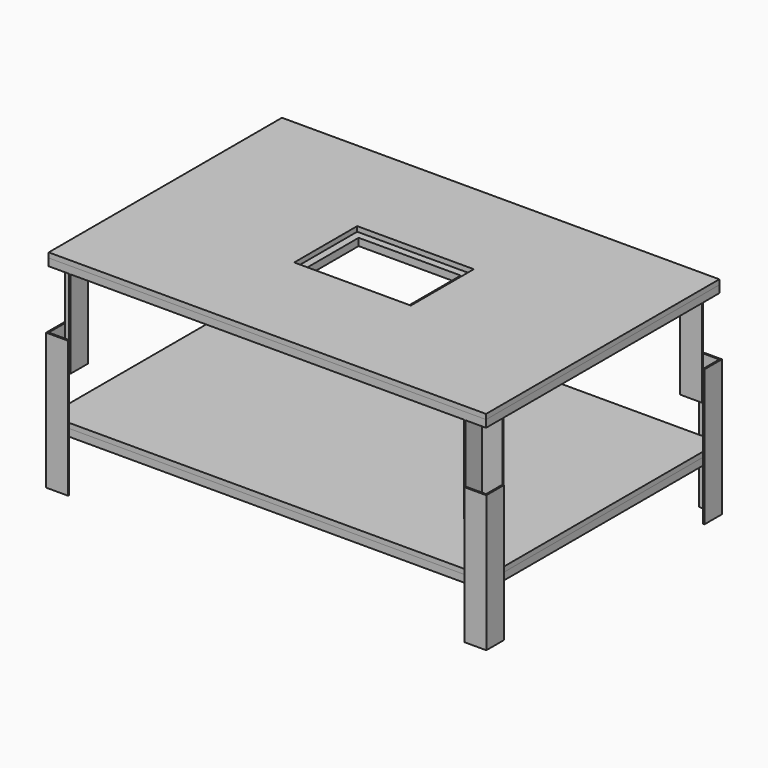
from build123d import *

# Parameters (mm, degrees)
F0_W      = 1500
F0_H      = 1000
F1_DEPTH  = 17
F2_W      = 1500
F2_H      = 1000
F2_W_2    = 350
F2_H_2    = 50
F3_DEPTH  = 25
F2_W_3    = 450
F2_H_3    = 25
F4_DEPTH  = 50
F5_W      = 400
F5_H      = 270
F6_DEPTH  = 17
F8_DEPTH  = 300
F11_DEPTH = 468
F13_W     = 1500
F13_H     = 1000
F14_DEPTH = 17
F15_W     = 1500
F15_H     = 1000
F15_W_2   = 1450
F15_H_2   = 950
F16_DEPTH = 25


with BuildPart() as f1:
    # F0 (on Top) → F1 (new body)
    with BuildSketch(Plane.XY):
        Rectangle(F0_W, F0_H)
    extrude(amount=F1_DEPTH)

    # F5 (on face) → F6 (cut, through all)
    with BuildSketch(Plane.XY.offset(17)):
        Rectangle(F5_W, F5_H)
    extrude(amount=-F6_DEPTH, mode=Mode.SUBTRACT)


with BuildPart() as f3:
    # F2 (on face) → F3 (new body)
    with BuildSketch(Plane(origin=(0, 0, 0), x_dir=(1, 0, 0), z_dir=(0, 0, -1))):
        Rectangle(F2_W, F2_H)
        Polygon((225, 425), (675, 425), (675, 160), (675, 135), (675, -135), (675, -160), (675, -425), (225, -425), (175, -425), (-175, -425), (-225, -425), (-675, -425), (-675, -160), (-675, -135), (-675, 135), (-675, 160), (-675, 425), (-225, 425), (-175, 425), (175, 425), align=None, mode=Mode.SUBTRACT)
        Polygon((-175, 160), (-175, 425), (-225, 425), (-225, 160), (-225, 135), (-225, -135), (-225, -160), (-225, -425), (-175, -425), (-175, -160), (-175, -110), (-175, 110), align=None)
        Polygon((225, 160), (225, 425), (175, 425), (175, 160), (175, 110), (175, -110), (175, -160), (175, -425), (225, -425), (225, -160), (225, -135), (225, 135), align=None)
        with Locations((0, 135)):
            Rectangle(F2_W_2, F2_H_2)
        with Locations((0, -135)):
            Rectangle(F2_W_2, F2_H_2)
    extrude(amount=F3_DEPTH)


with BuildPart() as f4:
    # F2 (on face) → F4 (new body)
    with BuildSketch(Plane(origin=(0, 0, 0), x_dir=(1, 0, 0), z_dir=(0, 0, -1))):
        with Locations((-450, 147.5)):
            Rectangle(F2_W_3, F2_H_3)
    extrude(amount=F4_DEPTH)


with BuildPart() as f4b:
    # F2 (on face) → F4, piece 2 (new body)
    with BuildSketch(Plane(origin=(0, 0, 0), x_dir=(1, 0, 0), z_dir=(0, 0, -1))):
        with Locations((-450, -147.5)):
            Rectangle(F2_W_3, F2_H_3)
    extrude(amount=F4_DEPTH)


with BuildPart() as f4c:
    # F2 (on face) → F4, piece 3 (new body)
    with BuildSketch(Plane(origin=(0, 0, 0), x_dir=(1, 0, 0), z_dir=(0, 0, -1))):
        with Locations((450, 147.5)):
            Rectangle(F2_W_3, F2_H_3)
    extrude(amount=F4_DEPTH)


with BuildPart() as f4d:
    # F2 (on face) → F4, piece 4 (new body)
    with BuildSketch(Plane(origin=(0, 0, 0), x_dir=(1, 0, 0), z_dir=(0, 0, -1))):
        with Locations((450, -147.5)):
            Rectangle(F2_W_3, F2_H_3)
    extrude(amount=F4_DEPTH)


with BuildPart() as f8:
    # F7 (on face) → F8 (new body)
    with BuildSketch(Plane(origin=(0, 0, -25), x_dir=(1, 0, 0), z_dir=(0, 0, -1))):
        Polygon((-675, -500), (-675, -425), (-750, -425), (-750, -430), (-680, -430), (-680, -500), align=None)
        Polygon((-750, 425), (-675, 425), (-675, 500), (-680.0000071526, 500), (-680.0000071526, 430.0000071526), (-750, 430.0000071526), align=None)
        Polygon((680, 500), (675, 500), (675, 425), (750, 425), (750, 430), (680, 430), align=None)
        Polygon((675, -425), (675, -500), (680.0000071526, -500), (680.0000071526, -430.0000071526), (750, -430.0000071526), (750, -425), align=None)
    extrude(amount=F8_DEPTH)

    # F10 (on offset) → F11 (join)
    with BuildSketch(Plane(origin=(0, 0, -225), x_dir=(1, 0, 0), z_dir=(0, 0, -1))):
        Polygon((755, -430.0000071526), (750, -430.0000071526), (750, -500), (680.0000071526, -500), (680.0000071526, -505), (755, -505), align=None)
        Polygon((750, 500), (750, 430), (755, 430), (755, 505), (680, 505), (680, 500), align=None)
        Polygon((-750, 500), (-680.0000071526, 500), (-680.0000071526, 505), (-755, 505), (-755, 430.0000071526), (-750, 430.0000071526), align=None)
        Polygon((-750, -500), (-750, -430), (-755, -430), (-755, -505), (-680, -505), (-680, -500), align=None)
    extrude(amount=F11_DEPTH)


with BuildPart() as f14:
    # F13 (on offset) → F14 (new body)
    with BuildSketch(Plane(origin=(0, 0, -475), x_dir=(1, 0, 0), z_dir=(0, 0, -1))):
        Rectangle(F13_W, F13_H)
    extrude(amount=F14_DEPTH)


with BuildPart() as f16:
    # F15 (on face) → F16 (new body)
    with BuildSketch(Plane(origin=(0, 0, -492), x_dir=(1, 0, 0), z_dir=(0, 0, -1))):
        Rectangle(F15_W, F15_H)
        Rectangle(F15_W_2, F15_H_2, mode=Mode.SUBTRACT)
    extrude(amount=F16_DEPTH)


solid = Compound([f1.part, f3.part, f4.part, f4b.part, f4c.part, f4d.part, f8.part, f14.part, f16.part])
